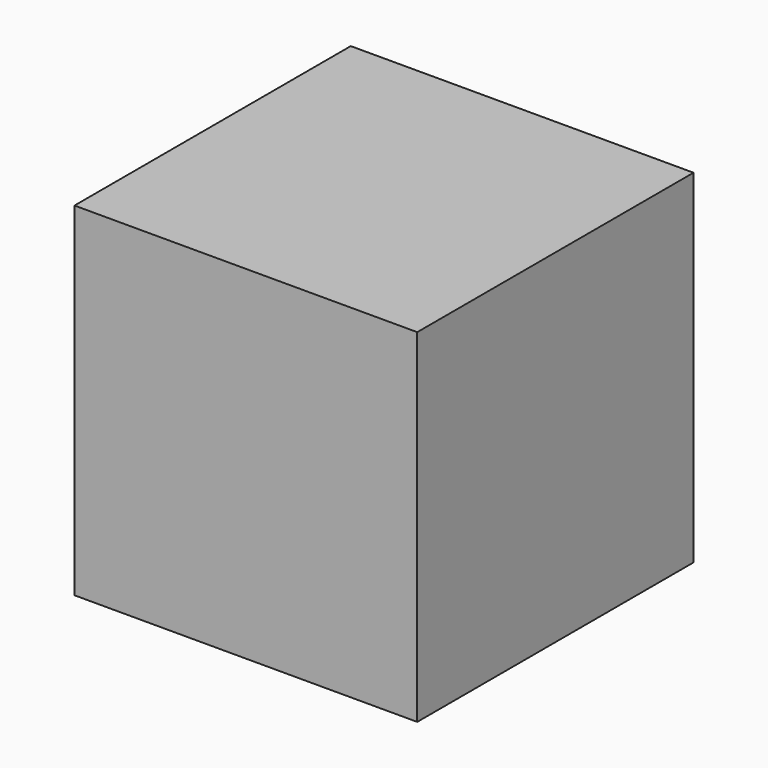
from build123d import *

# Parameters (mm, degrees)
F1_W     = 151.520274
F1_H     = 152.655526
F2_DEPTH = 76.191366
F0_W     = 151.520274
F0_H     = 152.655526
F3_DEPTH = 75.494431


with BuildPart() as f2:
    # F1 (on face) → F2 (new body)
    with BuildSketch(Plane.XY):
        Rectangle(F1_W, F1_H)
    extrude(amount=F2_DEPTH)

    # F0 (on Top) → F3 (join)
    with BuildSketch(Plane.XY):
        Rectangle(F0_W, F0_H)
    extrude(amount=-F3_DEPTH)


solid = f2.part
